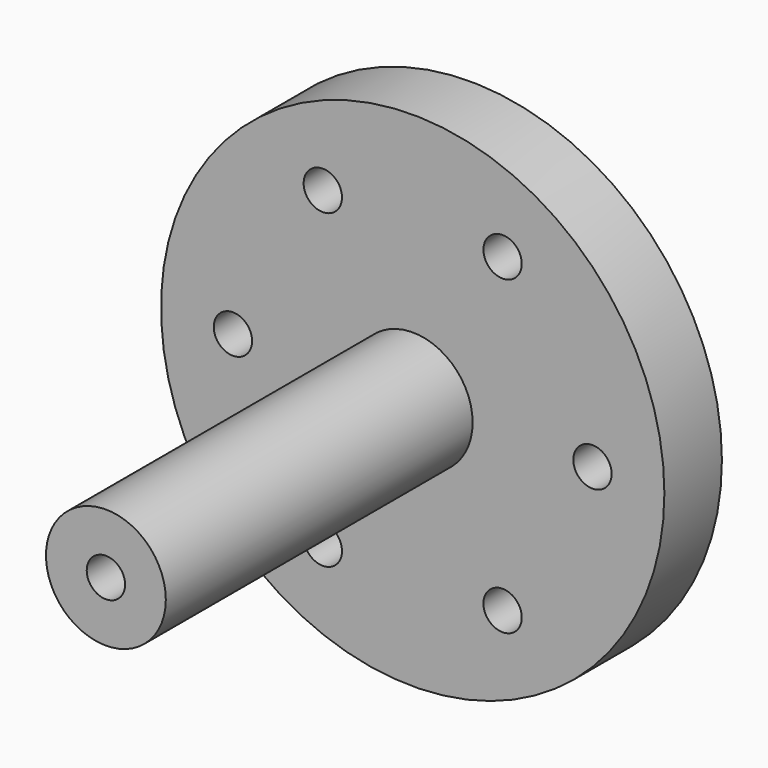
from build123d import *

# Parameters (mm, degrees)
F0_R     = 21
F0_R_2   = 2
F0_R_3   = 5
F1_DEPTH = 6
F2_DEPTH = 38
F3_D     = 3.2


with BuildPart() as f1:
    # F0 (on Front) → F1 (new body)
    with BuildSketch(Plane.XZ):
        Circle(F0_R)
        with Locations((-7.5, -12.9903810568)):
            Circle(F0_R_2, mode=Mode.SUBTRACT)
        with Locations((7.5, -12.9903810568)):
            Circle(F0_R_2, mode=Mode.SUBTRACT)
        with Locations((-15, 0)):
            Circle(F0_R_2, mode=Mode.SUBTRACT)
        with Locations((-7.5, 12.9903810568)):
            Circle(F0_R_2, mode=Mode.SUBTRACT)
        Circle(F0_R_3, mode=Mode.SUBTRACT)
        with Locations((15, 0)):
            Circle(F0_R_2, mode=Mode.SUBTRACT)
        with Locations((7.5, 12.9903810568)):
            Circle(F0_R_2, mode=Mode.SUBTRACT)
        with Locations((-15, 0)):
            Circle(F0_R_2)
        with Locations((-7.5, 12.9903810568)):
            Circle(F0_R_2)
        with Locations((7.5, 12.9903810568)):
            Circle(F0_R_2)
        with Locations((15, 0)):
            Circle(F0_R_2)
        with Locations((7.5, -12.9903810568)):
            Circle(F0_R_2)
        with Locations((-7.5, -12.9903810568)):
            Circle(F0_R_2)
    extrude(amount=F1_DEPTH)

    # F0 (on Front) → F2 (join)
    with BuildSketch(Plane.XZ):
        Circle(F0_R_3)
        Circle(F0_R_2, mode=Mode.SUBTRACT)
        Circle(F0_R_2)
    extrude(amount=F2_DEPTH)

    # F3 (through all)
    with Locations(Plane(origin=(0, 0, 0), x_dir=(1, 0, 0), z_dir=(0, 1, 0))):
        with Locations((-15, 0), (-7.5, -12.9903810568), (7.5, -12.9903810568), (15, 0), (7.5, 12.9903810568), (-7.5, 12.9903810568), (0, 0)):
            Hole(F3_D / 2)


solid = f1.part
